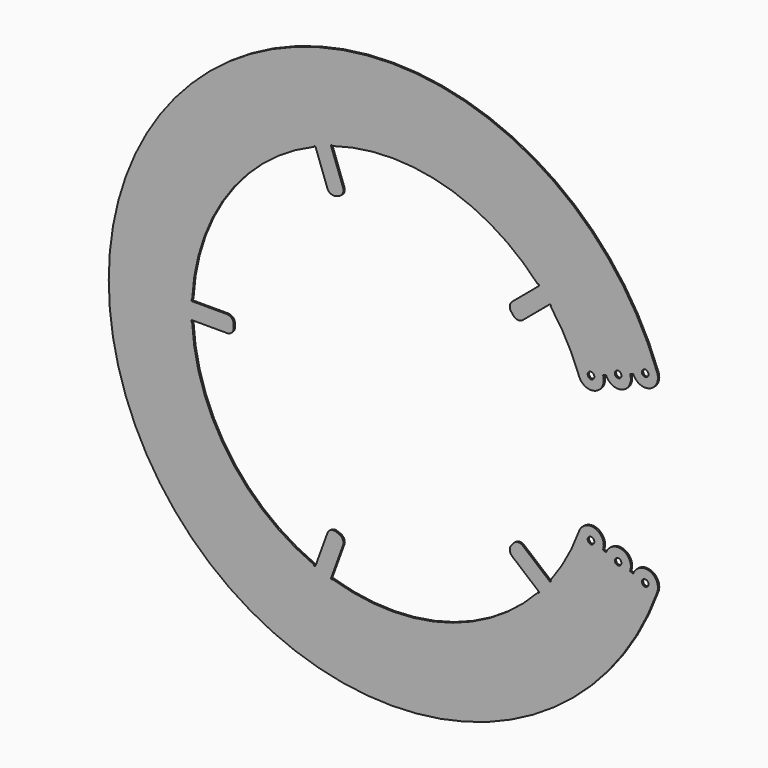
from build123d import *

# Parameters (mm, degrees)
F0_R     = 2
F1_DEPTH = 1


with BuildPart() as f1:
    # F0 (on Front) → F1 (new body)
    with BuildSketch(Plane.XZ):
        with BuildLine():
            ThreePointArc((95.666444, 72.442608), (105.390764, 57.382809), (112.763114, 41.042417))
            ThreePointArc((112.763114, 41.042417), (122.589579, 36.460262), (127.171735, 46.286726))
            Line((127.171735, 46.286726), (129.05112, 46.970766))
            ThreePointArc((129.05112, 46.970766), (138.877584, 42.388611), (143.45974, 52.215075))
            Line((143.45974, 52.215075), (145.339125, 52.899116))
            ThreePointArc((145.339125, 52.899116), (155.16559, 48.31696), (159.747746, 58.143424))
            ThreePointArc((159.747746, 58.143424), (-170, 0), (159.747746, -58.143424))
            ThreePointArc((159.747746, -58.143424), (155.16559, -48.31696), (145.339125, -52.899116))
            Line((145.339125, -52.899116), (143.45974, -52.215075))
            ThreePointArc((143.45974, -52.215075), (138.877584, -42.388611), (129.05112, -46.970766))
            Line((129.05112, -46.970766), (127.171735, -46.286726))
            ThreePointArc((127.171735, -46.286726), (122.589579, -36.460262), (112.763114, -41.042417))
            ThreePointArc((112.763114, -41.042417), (105.390764, -57.382809), (95.666444, -72.442608))
            ThreePointArc((95.666444, -72.442608), (95.761119, -73.144091), (95.05944, -73.237305))
            Line((95.05944, -73.237305), (78.972507, -59.738765))
            ThreePointArc((78.972507, -59.738765), (76.052734, -58.818164), (73.337179, -60.231792))
            Line((73.337179, -60.231792), (72.051604, -61.763881))
            ThreePointArc((72.051604, -61.763881), (71.131003, -64.683655), (72.544631, -67.399209))
            Line((72.544631, -67.399209), (88.631564, -80.897749))
            ThreePointArc((88.631564, -80.897749), (88.661612, -81.604954), (87.954346, -81.633529))
            ThreePointArc((87.954346, -81.633529), (31.058285, -115.911099), (-35.353934, -114.673883))
            ThreePointArc((-35.353934, -114.673883), (-35.980731, -115.002769), (-36.308312, -114.375288))
            Line((-36.308312, -114.375288), (-29.125889, -94.641743))
            ThreePointArc((-29.125889, -94.641743), (-29.259428, -91.583189), (-31.516578, -89.514892))
            Line((-31.516578, -89.514892), (-33.395964, -88.830852))
            ThreePointArc((-33.395964, -88.830852), (-36.454517, -88.964391), (-38.522815, -91.221542))
            Line((-38.522815, -91.221542), (-45.705238, -110.955087))
            ThreePointArc((-45.705238, -110.955087), (-46.359516, -111.225201), (-46.628266, -110.570361))
            ThreePointArc((-46.628266, -110.570361), (-98.298245, -68.829172), (-119.849959, -5.998947))
            ThreePointArc((-119.849959, -5.998947), (-120.373389, -5.522436), (-119.895788, -5))
            Line((-119.895788, -5), (-98.895788, -5))
            ThreePointArc((-98.895788, -5), (-96.067361, -3.828427), (-94.895788, -1))
            Line((-94.895788, -1), (-94.895788, 1))
            ThreePointArc((-94.895788, 1), (-96.067361, 3.828427), (-98.895788, 5))
            Line((-98.895788, 5), (-119.895788, 5))
            ThreePointArc((-119.895788, 5), (-120.373389, 5.522436), (-119.849959, 5.998947))
            ThreePointArc((-119.849959, 5.998947), (-98.298245, 68.829172), (-46.628266, 110.570361))
            ThreePointArc((-46.628266, 110.570361), (-46.359516, 111.225201), (-45.705238, 110.955087))
            Line((-45.705238, 110.955087), (-38.522815, 91.221542))
            ThreePointArc((-38.522815, 91.221542), (-36.454517, 88.964391), (-33.395964, 88.830852))
            Line((-33.395964, 88.830852), (-31.516578, 89.514892))
            ThreePointArc((-31.516578, 89.514892), (-29.259428, 91.583189), (-29.125889, 94.641743))
            Line((-29.125889, 94.641743), (-36.308312, 114.375288))
            ThreePointArc((-36.308312, 114.375288), (-35.980731, 115.002769), (-35.353934, 114.673883))
            ThreePointArc((-35.353934, 114.673883), (31.058285, 115.911099), (87.954346, 81.633529))
            ThreePointArc((87.954346, 81.633529), (88.661612, 81.604954), (88.631564, 80.897749))
            Line((88.631564, 80.897749), (72.544631, 67.399209))
            ThreePointArc((72.544631, 67.399209), (71.131003, 64.683655), (72.051604, 61.763881))
            Line((72.051604, 61.763881), (73.337179, 60.231792))
            ThreePointArc((73.337179, 60.231792), (76.052734, 58.818164), (78.972507, 59.738765))
            Line((78.972507, 59.738765), (95.05944, 73.237305))
            ThreePointArc((95.05944, 73.237305), (95.761119, 73.144091), (95.666444, 72.442608))
        make_face()
        with Locations((119.967425, -43.664572)):
            Circle(F0_R, mode=Mode.SUBTRACT)
        with Locations((136.25543, -49.592921)):
            Circle(F0_R, mode=Mode.SUBTRACT)
        with Locations((152.543435, -55.52127)):
            Circle(F0_R, mode=Mode.SUBTRACT)
        with Locations((119.967425, 43.664572)):
            Circle(F0_R, mode=Mode.SUBTRACT)
        with Locations((136.25543, 49.592921)):
            Circle(F0_R, mode=Mode.SUBTRACT)
        with Locations((152.543435, 55.52127)):
            Circle(F0_R, mode=Mode.SUBTRACT)
    extrude(amount=F1_DEPTH)


solid = f1.part
